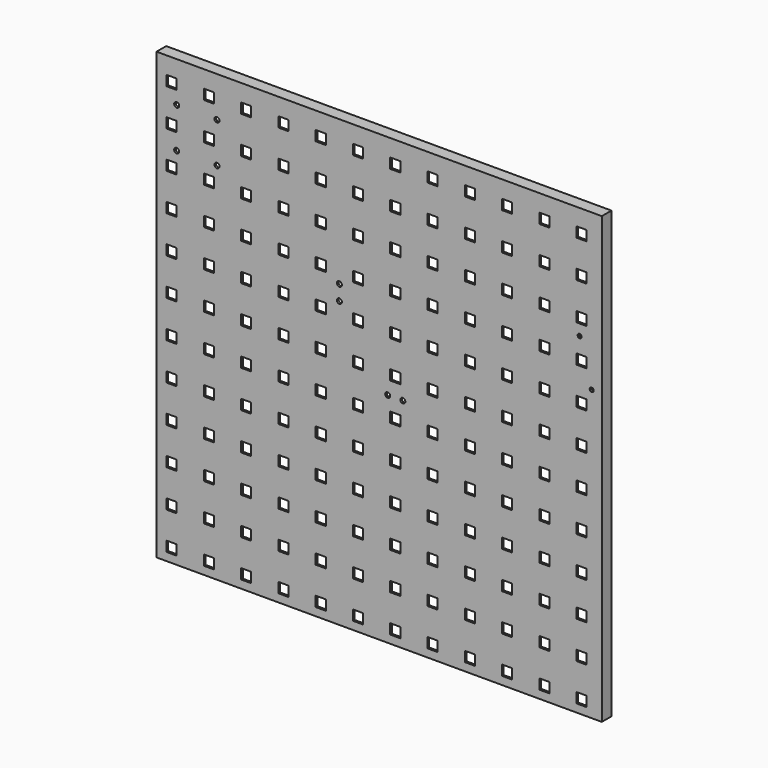
from build123d import *

# Parameters (mm, degrees)
F0_W     = 442
F0_H     = 442
F1_DEPTH = 12
F2_W     = 441
F2_H     = 441
F3_DEPTH = 10
F4_W     = 10
F4_H     = 10
F5_DEPTH = 12.001
F7_D     = 5
F8_D     = 4
F8_DEPTH = 34.4
F8_TIP   = 1.2017212381


with BuildPart() as f1:
    # F0 (on Front) → F1 (new body)
    with BuildSketch(Plane.XZ):
        Rectangle(F0_W, F0_H)
    extrude(amount=F1_DEPTH)

    # F2 (on face) → F3 (cut)
    with BuildSketch(Plane(origin=(0, 0, 0), x_dir=(-1, 0, 0), z_dir=(0, 1, 0))):
        Rectangle(F2_W, F2_H)
    extrude(amount=-F3_DEPTH, mode=Mode.SUBTRACT)

    # F4 (on face) → F5 (cut, through all)
    with BuildSketch(Plane.XZ.offset(12)):
        with Locations((-206, 199)):
            Rectangle(F4_W, F4_H)
        with Locations((-169, 199)):
            Rectangle(F4_W, F4_H)
        with Locations((-132, 199)):
            Rectangle(F4_W, F4_H)
        with Locations((-95, 199)):
            Rectangle(F4_W, F4_H)
        with Locations((-58, 199)):
            Rectangle(F4_W, F4_H)
        with Locations((-132, -171)):
            Rectangle(F4_W, F4_H)
        with Locations((-132, -97)):
            Rectangle(F4_W, F4_H)
        with Locations((-169, -134)):
            Rectangle(F4_W, F4_H)
        with Locations((-95, -134)):
            Rectangle(F4_W, F4_H)
        with Locations((-169, -97)):
            Rectangle(F4_W, F4_H)
        with Locations((-132, -134)):
            Rectangle(F4_W, F4_H)
        with Locations((-58, -97)):
            Rectangle(F4_W, F4_H)
        with Locations((-169, -171)):
            Rectangle(F4_W, F4_H)
        with Locations((-58, -60)):
            Rectangle(F4_W, F4_H)
        with Locations((-95, -60)):
            Rectangle(F4_W, F4_H)
        with Locations((-95, -97)):
            Rectangle(F4_W, F4_H)
        with Locations((-58, -134)):
            Rectangle(F4_W, F4_H)
        with Locations((-95, -171)):
            Rectangle(F4_W, F4_H)
        with Locations((90, -171)):
            Rectangle(F4_W, F4_H)
        with Locations((-95, -23)):
            Rectangle(F4_W, F4_H)
        with Locations((16, 88)):
            Rectangle(F4_W, F4_H)
        with Locations((-95, 88)):
            Rectangle(F4_W, F4_H)
        with Locations((-206, 88)):
            Rectangle(F4_W, F4_H)
        with Locations((164, -171)):
            Rectangle(F4_W, F4_H)
        with Locations((90, -134)):
            Rectangle(F4_W, F4_H)
        with Locations((-58, -171)):
            Rectangle(F4_W, F4_H)
        with Locations((53, 88)):
            Rectangle(F4_W, F4_H)
        with Locations((-95, 125)):
            Rectangle(F4_W, F4_H)
        with Locations((53, -171)):
            Rectangle(F4_W, F4_H)
        with Locations((90, 88)):
            Rectangle(F4_W, F4_H)
        with Locations((201, -171)):
            Rectangle(F4_W, F4_H)
        with Locations((-95, 14)):
            Rectangle(F4_W, F4_H)
        with Locations((90, 51)):
            Rectangle(F4_W, F4_H)
        with Locations((-95, 51)):
            Rectangle(F4_W, F4_H)
        with Locations((90, 199)):
            Rectangle(F4_W, F4_H)
        with Locations((90, -97)):
            Rectangle(F4_W, F4_H)
        with Locations((-95, -208)):
            Rectangle(F4_W, F4_H)
        with Locations((-58, 88)):
            Rectangle(F4_W, F4_H)
        with Locations((90, -60)):
            Rectangle(F4_W, F4_H)
        with Locations((127, -171)):
            Rectangle(F4_W, F4_H)
        with Locations((127, 88)):
            Rectangle(F4_W, F4_H)
        with Locations((-206, -171)):
            Rectangle(F4_W, F4_H)
        with Locations((90, -208)):
            Rectangle(F4_W, F4_H)
        with Locations((164, 88)):
            Rectangle(F4_W, F4_H)
        with Locations((-21, 88)):
            Rectangle(F4_W, F4_H)
        with Locations((90, -23)):
            Rectangle(F4_W, F4_H)
        with Locations((-169, 88)):
            Rectangle(F4_W, F4_H)
        with Locations((90, 14)):
            Rectangle(F4_W, F4_H)
        with Locations((16, -171)):
            Rectangle(F4_W, F4_H)
        with Locations((-132, 88)):
            Rectangle(F4_W, F4_H)
        with Locations((-95, 162)):
            Rectangle(F4_W, F4_H)
        with Locations((201, 88)):
            Rectangle(F4_W, F4_H)
        with Locations((90, 125)):
            Rectangle(F4_W, F4_H)
        with Locations((-21, -171)):
            Rectangle(F4_W, F4_H)
        with Locations((90, 162)):
            Rectangle(F4_W, F4_H)
        with Locations((53, 51)):
            Rectangle(F4_W, F4_H)
        with Locations((127, 125)):
            Rectangle(F4_W, F4_H)
        with Locations((201, -97)):
            Rectangle(F4_W, F4_H)
        with Locations((-206, 14)):
            Rectangle(F4_W, F4_H)
        with Locations((-169, 125)):
            Rectangle(F4_W, F4_H)
        with Locations((127, 199)):
            Rectangle(F4_W, F4_H)
        with Locations((127, 162)):
            Rectangle(F4_W, F4_H)
        with Locations((201, -23)):
            Rectangle(F4_W, F4_H)
        with Locations((53, 162)):
            Rectangle(F4_W, F4_H)
        with Locations((-206, -208)):
            Rectangle(F4_W, F4_H)
        with Locations((201, 14)):
            Rectangle(F4_W, F4_H)
        with Locations((201, 162)):
            Rectangle(F4_W, F4_H)
        with Locations((16, -97)):
            Rectangle(F4_W, F4_H)
        with Locations((164, 51)):
            Rectangle(F4_W, F4_H)
        with Locations((201, 199)):
            Rectangle(F4_W, F4_H)
        with Locations((-132, -208)):
            Rectangle(F4_W, F4_H)
        with Locations((-132, 14)):
            Rectangle(F4_W, F4_H)
        with Locations((-21, 14)):
            Rectangle(F4_W, F4_H)
        with Locations((-58, 125)):
            Rectangle(F4_W, F4_H)
        with Locations((127, 51)):
            Rectangle(F4_W, F4_H)
        with Locations((164, 199)):
            Rectangle(F4_W, F4_H)
        with Locations((-21, 162)):
            Rectangle(F4_W, F4_H)
        with Locations((-206, -97)):
            Rectangle(F4_W, F4_H)
        with Locations((164, 14)):
            Rectangle(F4_W, F4_H)
        with Locations((164, -134)):
            Rectangle(F4_W, F4_H)
        with Locations((-58, 14)):
            Rectangle(F4_W, F4_H)
        with Locations((53, -208)):
            Rectangle(F4_W, F4_H)
        with Locations((-21, 199)):
            Rectangle(F4_W, F4_H)
        with Locations((-58, 162)):
            Rectangle(F4_W, F4_H)
        with Locations((164, -208)):
            Rectangle(F4_W, F4_H)
        with Locations((-21, -60)):
            Rectangle(F4_W, F4_H)
        with Locations((164, -97)):
            Rectangle(F4_W, F4_H)
        with Locations((-169, -23)):
            Rectangle(F4_W, F4_H)
        with Locations((16, 199)):
            Rectangle(F4_W, F4_H)
        with Locations((-58, -208)):
            Rectangle(F4_W, F4_H)
        with Locations((127, -97)):
            Rectangle(F4_W, F4_H)
        with Locations((53, -134)):
            Rectangle(F4_W, F4_H)
        with Locations((127, -60)):
            Rectangle(F4_W, F4_H)
        with Locations((201, -208)):
            Rectangle(F4_W, F4_H)
        with Locations((201, -134)):
            Rectangle(F4_W, F4_H)
        with Locations((-206, -134)):
            Rectangle(F4_W, F4_H)
        with Locations((16, -208)):
            Rectangle(F4_W, F4_H)
        with Locations((-132, 125)):
            Rectangle(F4_W, F4_H)
        with Locations((-21, -23)):
            Rectangle(F4_W, F4_H)
        with Locations((-58, 51)):
            Rectangle(F4_W, F4_H)
        with Locations((16, 125)):
            Rectangle(F4_W, F4_H)
        with Locations((-169, 51)):
            Rectangle(F4_W, F4_H)
        with Locations((16, -60)):
            Rectangle(F4_W, F4_H)
        with Locations((16, -23)):
            Rectangle(F4_W, F4_H)
        with Locations((16, 14)):
            Rectangle(F4_W, F4_H)
        with Locations((16, 51)):
            Rectangle(F4_W, F4_H)
        with Locations((-132, 51)):
            Rectangle(F4_W, F4_H)
        with Locations((16, 162)):
            Rectangle(F4_W, F4_H)
        with Locations((-21, -134)):
            Rectangle(F4_W, F4_H)
        with Locations((-132, -60)):
            Rectangle(F4_W, F4_H)
        with Locations((164, -23)):
            Rectangle(F4_W, F4_H)
        with Locations((127, 14)):
            Rectangle(F4_W, F4_H)
        with Locations((201, 51)):
            Rectangle(F4_W, F4_H)
        with Locations((53, 14)):
            Rectangle(F4_W, F4_H)
        with Locations((-21, -208)):
            Rectangle(F4_W, F4_H)
        with Locations((164, 162)):
            Rectangle(F4_W, F4_H)
        with Locations((-169, 14)):
            Rectangle(F4_W, F4_H)
        with Locations((-169, -60)):
            Rectangle(F4_W, F4_H)
        with Locations((-21, -97)):
            Rectangle(F4_W, F4_H)
        with Locations((127, -208)):
            Rectangle(F4_W, F4_H)
        with Locations((127, -23)):
            Rectangle(F4_W, F4_H)
        with Locations((-132, 162)):
            Rectangle(F4_W, F4_H)
        with Locations((-206, -60)):
            Rectangle(F4_W, F4_H)
        with Locations((-206, -23)):
            Rectangle(F4_W, F4_H)
        with Locations((-169, -208)):
            Rectangle(F4_W, F4_H)
        with Locations((16, -134)):
            Rectangle(F4_W, F4_H)
        with Locations((-21, 51)):
            Rectangle(F4_W, F4_H)
        with Locations((53, 199)):
            Rectangle(F4_W, F4_H)
        with Locations((53, 125)):
            Rectangle(F4_W, F4_H)
        with Locations((-169, 162)):
            Rectangle(F4_W, F4_H)
        with Locations((164, 125)):
            Rectangle(F4_W, F4_H)
        with Locations((-206, 162)):
            Rectangle(F4_W, F4_H)
        with Locations((-132, -23)):
            Rectangle(F4_W, F4_H)
        with Locations((53, -23)):
            Rectangle(F4_W, F4_H)
        with Locations((201, 125)):
            Rectangle(F4_W, F4_H)
        with Locations((53, -97)):
            Rectangle(F4_W, F4_H)
        with Locations((-21, 125)):
            Rectangle(F4_W, F4_H)
        with Locations((-58, -23)):
            Rectangle(F4_W, F4_H)
        with Locations((-206, 51)):
            Rectangle(F4_W, F4_H)
        with Locations((127, -134)):
            Rectangle(F4_W, F4_H)
        with Locations((-206, 125)):
            Rectangle(F4_W, F4_H)
        with Locations((164, -60)):
            Rectangle(F4_W, F4_H)
        with Locations((201, -60)):
            Rectangle(F4_W, F4_H)
        with Locations((53, -60)):
            Rectangle(F4_W, F4_H)
    extrude(amount=-F5_DEPTH, mode=Mode.SUBTRACT)

    # F7 (through all)
    with Locations(Plane.XZ.offset(12)):
        with Locations((-201, 141), (-161, 141), (-161, 181), (-201, 181), (-39.5, 77), (-39.5, 62), (8.5, -4.5), (23.5, -4.5)):
            Hole(F7_D / 2)

    # F8
    with Locations(Plane.XZ.offset(12)):
        with Locations((199, 109), (211, 66)):
            Hole(F8_D / 2, depth=F8_DEPTH)
            with Locations((0, 0, -(F8_DEPTH + F8_TIP / 2))):  # 118° drill point
                Cone(0, F8_D / 2, F8_TIP, mode=Mode.SUBTRACT)


solid = f1.part
